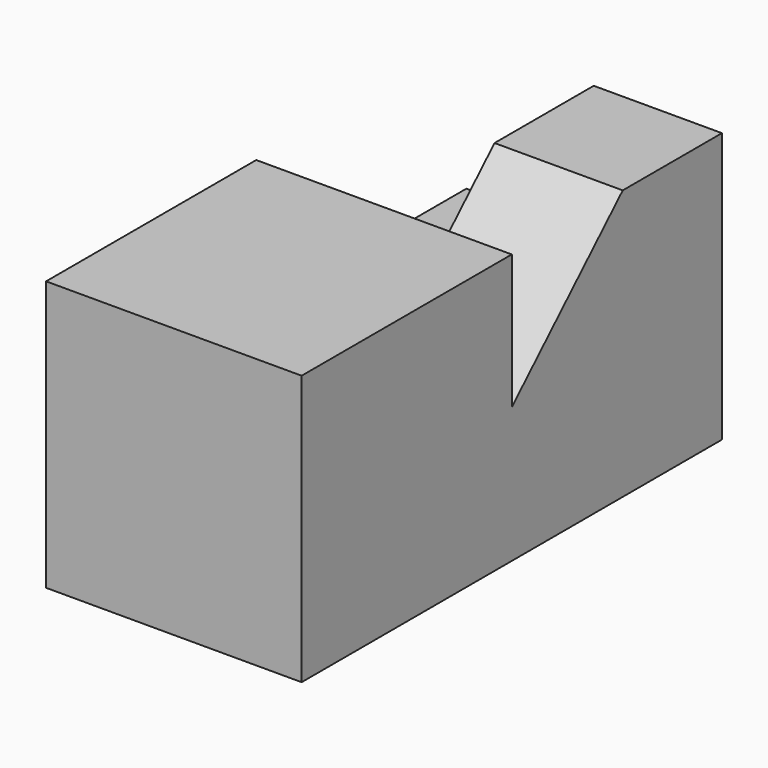
from build123d import *

# Parameters (mm, degrees)
F0_W     = 15.4432
F0_H     = 16.129
F1_DEPTH = 16.3068
F2_W     = 15.875
F2_H     = 7.9756
F3_DEPTH = 7.6962
F5_DEPTH = 25.4


with BuildPart() as f1:
    # F0 (on Top) → F1 (new body)
    with BuildSketch(Plane.XY):
        Polygon((0, -7.8232), (0, 0), (0, 7.7978), (-15.4432, 7.7978), (-15.4432, -7.8232), align=None)
        with Locations((-7.7216, 15.8623)):
            Rectangle(F0_W, F0_H)
    extrude(amount=F1_DEPTH)

    # F2 (on face) → F3 (cut)
    with BuildSketch(Plane(origin=(-15.4432, 0, 0), x_dir=(0, -1, 0), z_dir=(-1, 0, 0))):
        with Locations((-15.9893, 12.319)):
            Rectangle(F2_W, F2_H)
    extrude(amount=-F3_DEPTH, mode=Mode.SUBTRACT)

    # F4 (on face) → F5 (cut)
    with BuildSketch(Plane.YZ):
        Polygon((16.4338, 16.3068), (8.0518, 16.3068), (8.0518, 8.1788), align=None)
    extrude(amount=-F5_DEPTH, mode=Mode.SUBTRACT)


solid = f1.part
